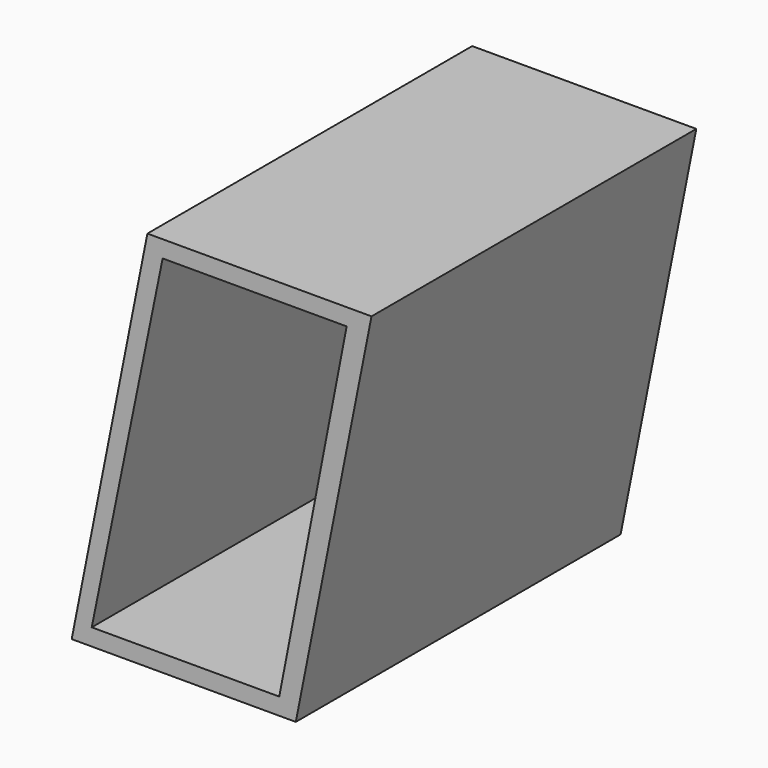
from build123d import *

# Parameters (mm, degrees)
F1_DEPTH = 76.2
F3_DEPTH = 101.6


with BuildPart() as f1:
    # F0 (on Front) → F1 (new body)
    with BuildSketch(Plane.XZ):
        Polygon((-15.662028, 37.975211), (-57.724428, 37.975211), (-71.931587, -33.654443), (-29.869187, -33.654443), align=None)
    extrude(amount=F1_DEPTH)

    # F2 (on Front) → F3 (cut, symmetric)
    with BuildSketch(Plane.XZ):
        Polygon((-32.971758, -30.479443), (-20.326851, 34.800211), (-54.859936, 34.800211), (-68.170242, -30.479443), align=None)
    extrude(amount=F3_DEPTH, both=True, mode=Mode.SUBTRACT)


solid = f1.part
